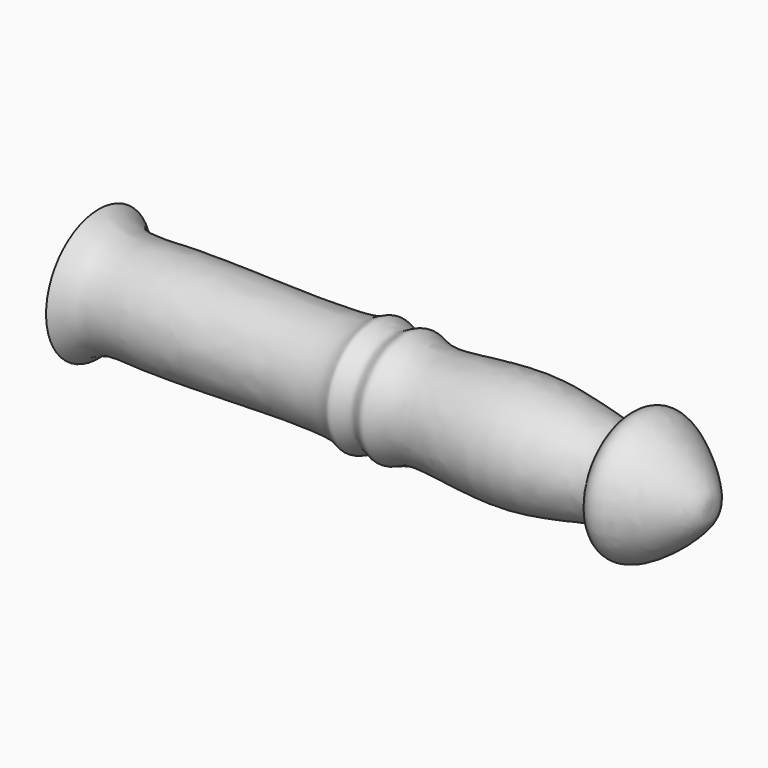
from build123d import *


with BuildPart() as f1:
    # F0 (on Front) → F1 (revolve)
    with BuildSketch(Plane.XZ):
        with BuildLine():
            add(Edge.make_bspline(
                [(-88.9, 19.05), (-83.4675841167, 13.5095776739), (-71.2661092485, 16.5400973818), (-12.3960004282, 12.7878443578), (-9.3102681541, 17.6908912619), (-3.7158043053, 13.6618123137), (0.1936494996, 17.5655072368), (6.9144378653, 12.0858404798), (35.5081622906, 19.7151126393), (64.5757481993, 9.9825502613), (63.4954806399, 14.5349955067), (68.7789460445, 23.4766040379), (89.3112596472, 5.4489867578), (88.9819577826, 2.2392616222), (88.9, 0)],
                knots=[0, 0, 0, 0, 0.1058335071, 0.2813845954, 0.3282688706, 0.381599781, 0.4288946711, 0.4874109418, 0.6178696496, 0.7384076189, 0.7727822365, 0.8323185219, 0.9443055217, 1, 1, 1, 1], degree=3))
            Line((-88.9, 19.05), (-88.9, 0))
            Line((-88.9, 0), (88.9, 0))
        make_face()
    revolve(axis=Axis((0, 0, 0), (1, 0, 0)))


solid = f1.part
